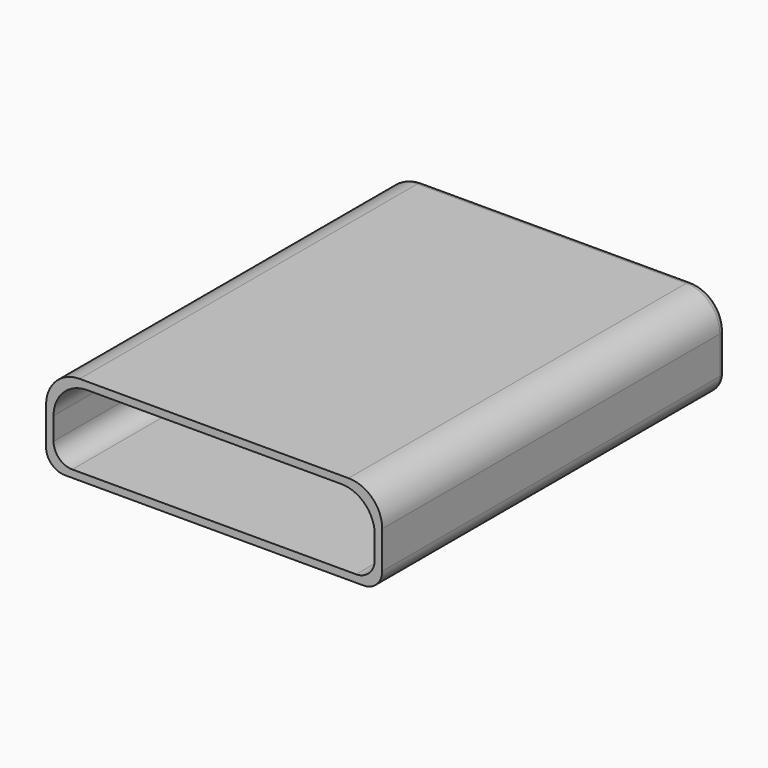
from build123d import *

# Parameters (mm, degrees)
SKETCH_W        = 90
SKETCH_H        = 115
PAD_DEPTH       = 24
SKETCH137_W     = 85.999994
SKETCH137_H     = 20
POCKET_DEPTH    = 113
FILLET_R        = 9
FILLET001_R     = 5
FILLET002_R     = 2
SKETCH143_W     = 18.3
SKETCH143_H     = 4.3
POCKET027_DEPTH = 2
FILLET004_R     = 2


with BuildPart() as part:
    # Sketch → Pad (new body)
    with BuildSketch(Plane.XY):
        with Locations((445, 157.5)):
            Rectangle(SKETCH_W, SKETCH_H)
    extrude(amount=PAD_DEPTH)

    # Sketch137 (on Face1 of Pad) → Pocket (cut)
    with BuildSketch(Plane.XZ.offset(-100)):
        with Locations((445.000003, 12)):
            Rectangle(SKETCH137_W, SKETCH137_H)
    extrude(amount=-POCKET_DEPTH, mode=Mode.SUBTRACT)

    # Fillet
    fillet_edges = [part.edges().sort_by_distance(p)[0] for p in [
        (490, 157.5, 24),
        (488, 156.5, 22),
        (402.000006, 156.5, 22),
        (400, 157.5, 24),
    ]]
    fillet(fillet_edges, radius=FILLET_R)

    # Fillet001
    fillet001_edges = [part.edges().sort_by_distance(p)[0] for p in [
        (402.000006, 156.5, 2),
        (490, 157.5, 0),
        (488, 156.5, 2),
        (400, 157.5, 0),
    ]]
    fillet(fillet001_edges, radius=FILLET001_R)

    # Fillet002
    fillet002_edges = [part.edges().sort_by_distance(p)[0] for p in [
        (445, 215, 24),
        (402.636039, 215, 21.363961),
        (400, 215, 10),
    ]]
    fillet(fillet002_edges, radius=FILLET002_R)

    # Sketch143 (on Face9 of Fillet002) → Pocket027 (cut)
    with BuildSketch(Plane(origin=(0, 215, 0), x_dir=(-1, 0, 0), z_dir=(0, 1, 0))):
        with Locations((-445, 12)):
            Rectangle(SKETCH143_W, SKETCH143_H)
    extrude(amount=-POCKET027_DEPTH, mode=Mode.SUBTRACT)

    # Fillet004
    fillet004_edges = [part.edges().sort_by_distance(p)[0] for p in [
        (435.85, 214, 9.85),
        (435.85, 214, 14.15),
        (454.15, 214, 9.85),
        (454.15, 214, 14.15),
    ]]
    fillet(fillet004_edges, radius=FILLET004_R)


with BuildPart() as part_1:
    # Body placement: moved
    add(part.part.moved(Location((0, -1, 0.25))))


solid = part_1.part
